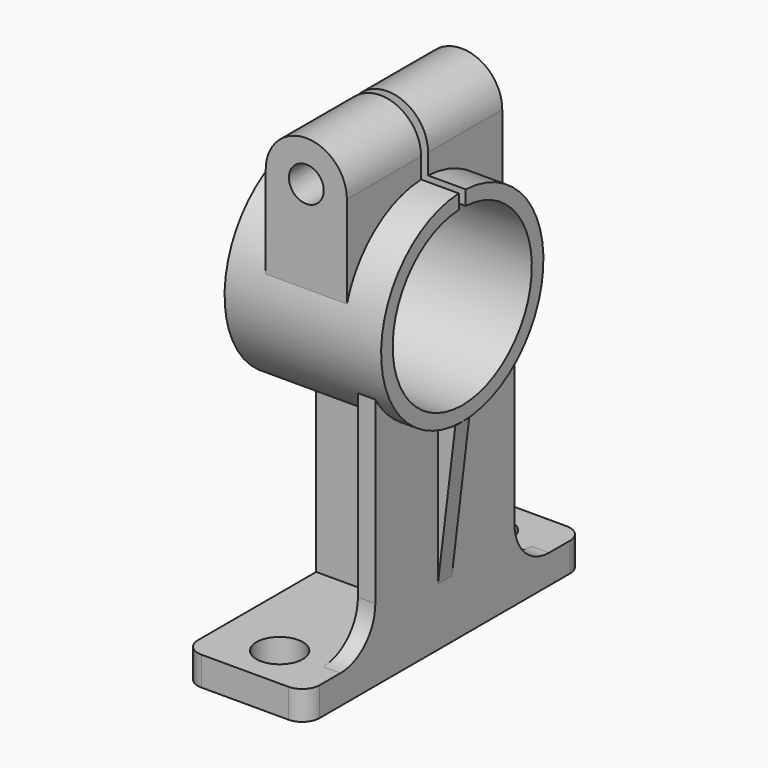
from build123d import *

# Parameters (mm, degrees)
PAD_DEPTH       = 42
SKETCH001_W     = 57
SKETCH001_H     = 36
POCKET_DEPTH    = 95
FILLET_R        = 6
FILLET001_R     = 6
FILLET002_R     = 6
FILLET003_R     = 6
SKETCH002_R     = 8
POCKET001_DEPTH = 10.001
POCKET002_DEPTH = 42.001
SKETCH004_R     = 35
PAD001_DEPTH    = 54
PAD002_DEPTH    = 33.5
POCKET003_DEPTH = 54.001
SKETCH008_R     = 6
POCKET004_DEPTH = 93.501
PAD003_DEPTH    = 3


with BuildPart() as part:
    # Sketch → Pad (new body)
    with BuildSketch(Plane.YZ):
        with BuildLine():
            Line((-60, 0), (60, 0))
            Line((60, 0), (60, 10))
            Line((60, 10), (45, 10))
            ThreePointArc((30, 25), (34.393398, 14.393398), (45, 10))
            Line((30, 25), (30, 105))
            Line((30, 105), (-30, 105))
            Line((-30, 105), (-30, 25))
            ThreePointArc((-45, 10), (-34.393398, 14.393398), (-30, 25))
            Line((-45, 10), (-60, 10))
            Line((-60, 10), (-60, 0))
        make_face()
    extrude(amount=PAD_DEPTH)

    # Sketch001 (on Face8 of Pad) → Pocket (cut)
    with BuildSketch(Plane(origin=(0, 0, 105), x_dir=(0, -1, 0), z_dir=(0, 0, 1))):
        with Locations((-31.5, 18)):
            Rectangle(SKETCH001_W, SKETCH001_H)
        with Locations((31.5, 18)):
            Rectangle(SKETCH001_W, SKETCH001_H)
    extrude(amount=-POCKET_DEPTH, mode=Mode.SUBTRACT)

    # Fillet
    fillet_edges = [part.edges().sort_by_distance(p)[0] for p in [
        (42, -60, 5),
    ]]
    fillet(fillet_edges, radius=FILLET_R)

    # Fillet001
    fillet001_edges = [part.edges().sort_by_distance(p)[0] for p in [
        (0, -60, 5),
    ]]
    fillet(fillet001_edges, radius=FILLET001_R)

    # Fillet002
    fillet002_edges = [part.edges().sort_by_distance(p)[0] for p in [
        (42, 60, 5),
    ]]
    fillet(fillet002_edges, radius=FILLET002_R)

    # Fillet003
    fillet003_edges = [part.edges().sort_by_distance(p)[0] for p in [
        (0, 60, 5),
    ]]
    fillet(fillet003_edges, radius=FILLET003_R)

    # Sketch002 (on Face14 of Fillet003) → Pocket001 (cut, through all)
    with BuildSketch(Plane(origin=(0, 0, 10), x_dir=(0, -1, 0), z_dir=(0, 0, 1))):
        with Locations((-45, 21)):
            Circle(SKETCH002_R)
        with Locations((45, 21)):
            Circle(SKETCH002_R)
    extrude(amount=-POCKET001_DEPTH, mode=Mode.SUBTRACT)

    # Sketch003 → Pocket002 (cut, through all)
    with BuildSketch(Plane.YZ):
        with BuildLine():
            ThreePointArc((-35, 105), (0, 70), (35, 105))
            Line((-35, 105), (35, 105))
        make_face()
    extrude(amount=POCKET002_DEPTH, mode=Mode.SUBTRACT)

    # Sketch004 → Pad001 (join)
    with BuildSketch(Plane(origin=(48, 0, 105), x_dir=(0, 0, -1), z_dir=(1, 0, 0))):
        Circle(SKETCH004_R)
    extrude(amount=-PAD001_DEPTH)

    # Sketch006 → Pad002 (join, symmetric)
    with BuildSketch(Plane.XZ):
        with BuildLine():
            Line((7, 146.999962), (7, 104.999962))
            Line((7, 104.999962), (35, 105))
            Line((35, 105), (35, 146.999962))
            ThreePointArc((35, 146.999962), (21, 160.999962), (7, 146.999962))
        make_face()
    extrude(amount=PAD002_DEPTH, both=True)

    # Sketch007 (on Face28 of Pad002) → Pocket003 (cut, through all)
    with BuildSketch(Plane.YZ.offset(48)):
        with BuildLine():
            ThreePointArc((-1.5, 134.962477), (0, 75), (1.5, 134.962477))
            Line((1.5, 163), (1.5, 134.962477))
            Line((-1.5, 163), (1.5, 163))
            Line((-1.5, 134.962477), (-1.5, 163))
        make_face()
    extrude(amount=-POCKET003_DEPTH, mode=Mode.SUBTRACT)

    # Sketch008 (on Face30 of Pocket003) → Pocket004 (cut, through all)
    with BuildSketch(Plane(origin=(0, -33.5, 0), x_dir=(0, 0, -1), z_dir=(0, -1, 0))):
        with Locations((-147, 21)):
            Circle(SKETCH008_R)
    extrude(amount=-POCKET004_DEPTH, mode=Mode.SUBTRACT)

    # Sketch009 → Pad003 (join, symmetric)
    with BuildSketch(Plane.XZ):
        Polygon((42, 70), (42, 20), (48, 70), align=None)
    extrude(amount=PAD003_DEPTH, both=True)


solid = part.part
